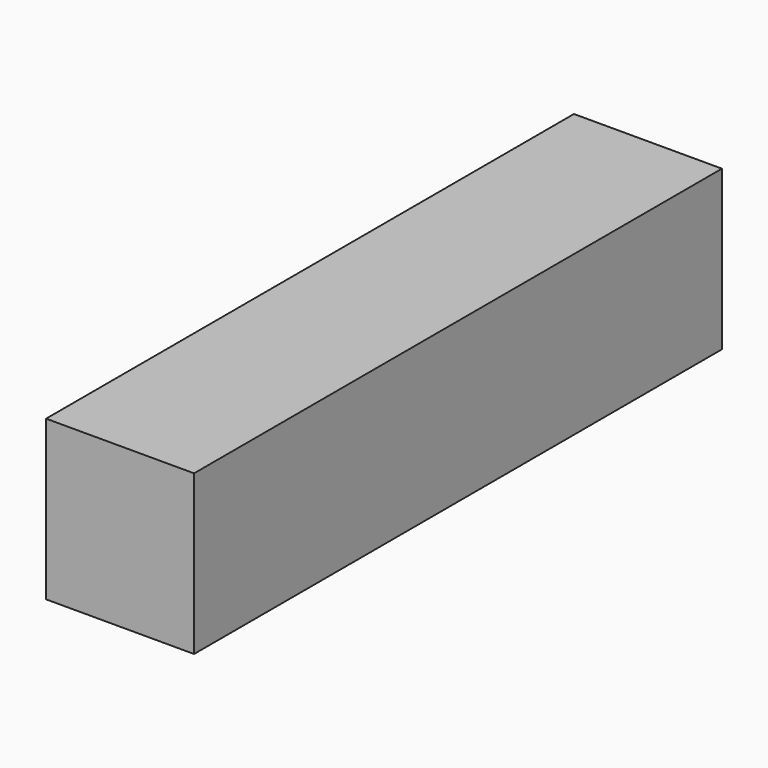
from build123d import *

# Parameters (mm, degrees)
F0_W     = 51.09906
F0_H     = 57.007652
F1_DEPTH = 304.8
F2_W     = 23.356358
F2_H     = 31.656551
F3_DEPTH = 152.4


with BuildPart() as f1:
    # F0 (on Front) → F1 (new body)
    with BuildSketch(Plane.XZ):
        with Locations((-15.536842, -1.578467)):
            Rectangle(F0_W, F0_H)
        Polygon((10.012688, 43.404479), (-58.349568, 43.404479), (-58.349568, -30.082293), (-41.086372, -30.082293), (-41.086372, 26.925359), (10.012688, 26.925359), align=None)
    extrude(amount=-F1_DEPTH)

    # F2 (on face) → F3 (join)
    with BuildSketch(Plane(origin=(0, 304.8, 0), x_dir=(-1, 0, 0), z_dir=(0, 1, 0))):
        with Locations((32.718203, 0.48257)):
            Rectangle(F2_W, F2_H)
    extrude(amount=-F3_DEPTH)


solid = f1.part
